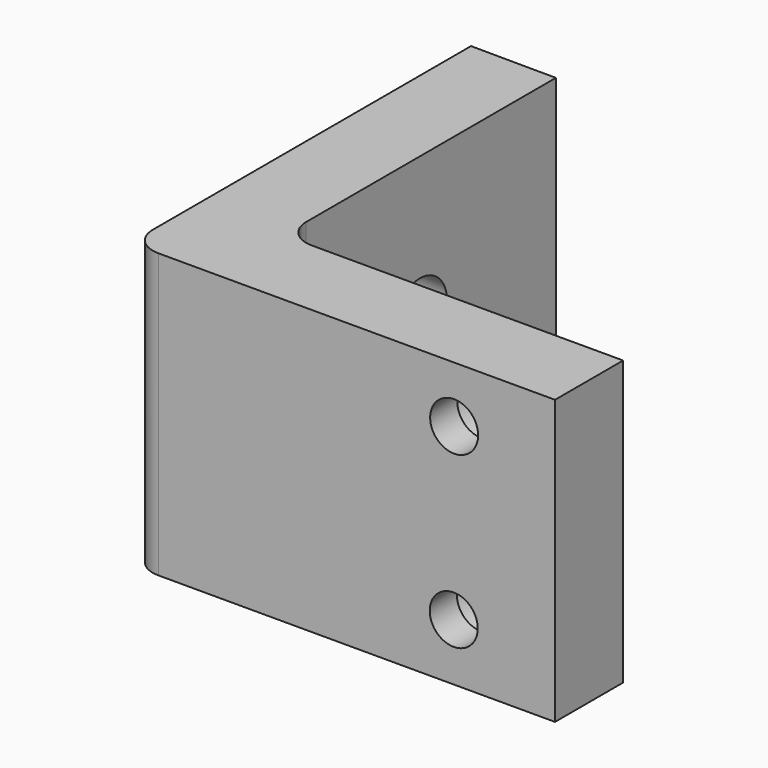
from build123d import *

# Parameters (mm, degrees)
F0_W           = 15.0410700589
F0_H           = 23.9910148084
F1_DEPTH       = 50
F3_D           = 12
F5_D           = 8.5
F5_DEPTH       = 15
F5_CBORE_D     = 13.5
F5_CBORE_DEPTH = 9
F5_TIP         = 2.5536576309


with BuildPart() as f1:
    # F0 (on Top) → F1 (new body)
    with BuildSketch(Plane.XY):
        with BuildLine():
            Line((0, 39.0400364995), (0, 5))
            ThreePointArc((0, 5), (1.4644660941, 1.4644660941), (5, 0))
            Line((5, 0), (52.6695400476, 0))
            Line((52.6695400476, 0), (52.6695400476, 6.0573876835))
            Line((52.6695400476, 6.0573876835), (50.1525513828, 6.0573876835))
            Line((50.1525513828, 6.0573876835), (50.1525513828, 15.0117706507))
            Line((50.1525513828, 15.0117706507), (20.0410700589, 15.0117706507))
            ThreePointArc((20.0410700589, 15.0117706507), (16.505536153, 16.4762367448), (15.0410700589, 20.0117706507))
            Line((15.0410700589, 20.0117706507), (15.0410700589, 25.0367524475))
            Line((15.0410700589, 25.0367524475), (15.0410700589, 39.0400364995))
            Line((15.0410700589, 39.0400364995), (0, 39.0400364995))
        make_face()
        Polygon((0, 45.056425035), (0, 39.0400364995), (15.0410700589, 39.0400364995), (15.0410700589, 45.056425035), (15.0410700589, 51.040943712), (0, 51.040943712), align=None)
        Polygon((52.6695400476, 6.0573876835), (52.6695400476, 0), (56.8805225194, 0), (61.0882826149, 0), (61.0882826149, 6.0573876835), (63.6130347848, 6.0573876835), (63.6130347848, 15.0117706507), (50.1525513828, 15.0117706507), (50.1525513828, 6.0573876835), align=None)
        with Locations((7.5205350295, 63.0364511162)):
            Rectangle(F0_W, F0_H)
        Polygon((0, 75.1270577312), (0, 75.0319585204), (15.0410700589, 75.0319585204), align=None)
        Polygon((61.0882826149, 6.0573876835), (61.0882826149, 0), (74.9153345823, 0), (74.9153345823, 15.0117706507), (63.6130347848, 15.0117706507), (63.6130347848, 6.0573876835), align=None)
    extrude(amount=F1_DEPTH)

    # F3 (through all)
    with Locations(Plane(origin=(0, 0, 0), x_dir=(0, 1, 0), z_dir=(-1, 0, 0))):
        with Locations((45.0686700642, -25.0693447888)):
            Hole(F3_D / 2)

    # F5
    with Locations(Plane(origin=(0, 15.0117706507, 0), x_dir=(-1, 0, 0), z_dir=(0, 1, 0))):
        with Locations((-57.1296028793, 40.0831848383), (-57.0615939796, 10.0682657212)):
            CounterBoreHole(F5_D / 2, F5_CBORE_D / 2, F5_CBORE_DEPTH, depth=F5_DEPTH)
            with Locations((0, 0, -(F5_DEPTH + F5_TIP / 2))):  # 118° drill point
                Cone(0, F5_D / 2, F5_TIP, mode=Mode.SUBTRACT)


solid = f1.part
